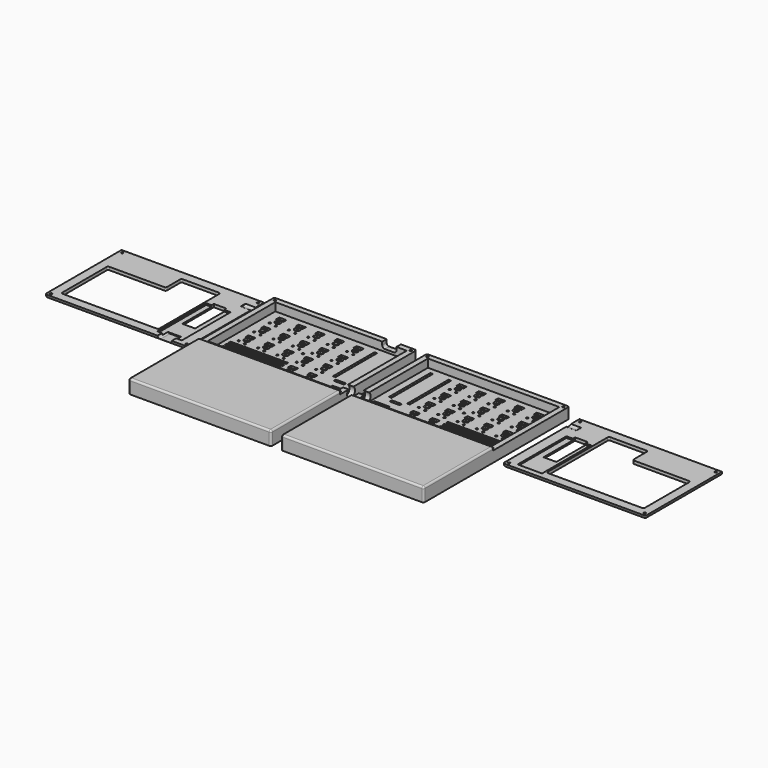
from build123d import *

# Parameters (mm, degrees)
PAD002_DEPTH                      = 13.6
SKETCH023_W                       = 129.2
SKETCH023_H                       = 83.1
POCKET016_DEPTH                   = 11
SKETCH027_R                       = 1.05
POCKET018_DEPTH                   = 13.601
SKETCH028_W                       = 140
SKETCH028_H                       = 93.9
POCKET019_DEPTH                   = 3
POCKET021_DEPTH                   = 1.6
SKETCH031_R                       = 1
SKETCH031_R_2                     = 2.7
SKETCH031_W                       = 7
SKETCH031_H                       = 3.8
POCKET022_DEPTH                   = 1.8
SKETCH032_W                       = 2.6
SKETCH032_H                       = 51
SKETCH032_W_2                     = 10
SKETCH032_H_2                     = 2.6
POCKET023_DEPTH                   = 1.8
SKETCH033_W                       = 56.5
SKETCH033_H                       = 2.4
SKETCH033_W_2                     = 22.5
POCKET024_DEPTH                   = 1.8
SKETCH034_W                       = 15
SKETCH034_H                       = 10
POCKET025_DEPTH                   = 1.8
SKETCH035_R                       = 4.85
POCKET026_DEPTH                   = 5.4
FILLET003_R                       = 1.8
POCKET027_DEPTH                   = 10
SKETCH038_W                       = 140
SKETCH038_H                       = 93.9
PAD004_DEPTH                      = 3
SKETCH039_W                       = 12.5
SKETCH039_H                       = 38.6472
POCKET028_DEPTH                   = 3
SKETCH040_W                       = 24
SKETCH040_H                       = 60
POCKET029_DEPTH                   = 1.5
SKETCH041_R                       = 1.05
POCKET030_DEPTH                   = 3.001
SKETCH042_R                       = 1.9
POCKET031_DEPTH                   = 1.4
CHAMFER001_1_ANGLE                = 45
CHAMFER001_1_SIZE                 = 0.843
CHAMFER001_2_ANGLE                = 45
CHAMFER001_2_SIZE                 = 0.843
CHAMFER001_3_ANGLE                = 45
CHAMFER001_3_SIZE                 = 0.843
CHAMFER001_4_ANGLE                = 45
CHAMFER001_4_SIZE                 = 0.843
FILLET004_R                       = 1.5
SKETCH043_R                       = 4.85
POCKET032_DEPTH                   = 10
FILLET005_R                       = 1.8
POCKET033_DEPTH                   = 12
BODY003_PLACEMENT_ANGLE           = 180
PAD005_DEPTH                      = 13.6
SKETCH046_W                       = 129.2
SKETCH046_H                       = 83.1
POCKET034_DEPTH                   = 11
SKETCH048_R                       = 1.05
POCKET035_DEPTH                   = 13.601
SKETCH049_W                       = 140
SKETCH049_H                       = 93.9
POCKET036_DEPTH                   = 3
POCKET037_DEPTH                   = 1.6
SKETCH051_R                       = 1
SKETCH051_R_2                     = 2.7
SKETCH051_W                       = 7
SKETCH051_H                       = 3.8
POCKET038_DEPTH                   = 1.8
SKETCH052_W                       = 2.6
SKETCH052_H                       = 51
SKETCH052_W_2                     = 10
SKETCH052_H_2                     = 2.6
POCKET039_DEPTH                   = 1.8
SKETCH053_W                       = 56.5
SKETCH053_H                       = 2.4
SKETCH053_W_2                     = 22.5
POCKET040_DEPTH                   = 1.8
SKETCH054_W                       = 15
SKETCH054_H                       = 10
POCKET041_DEPTH                   = 1.8
SKETCH055_R                       = 4.85
POCKET042_DEPTH                   = 5.4
FILLET006_R                       = 1.8
SKETCH057_W                       = 140
SKETCH057_H                       = 93.9
PAD006_DEPTH                      = 3
SKETCH058_W                       = 12.5
SKETCH058_H                       = 38.6472
POCKET043_DEPTH                   = 3
SKETCH059_W                       = 24
SKETCH059_H                       = 60
POCKET044_DEPTH                   = 1.5
SKETCH060_R                       = 1.05
POCKET045_DEPTH                   = 3.001
SKETCH061_R                       = 1.9
POCKET046_DEPTH                   = 1.4
CHAMFER002_1_ANGLE                = 45
CHAMFER002_1_SIZE                 = 0.843
CHAMFER002_2_ANGLE                = 45
CHAMFER002_2_SIZE                 = 0.843
CHAMFER002_3_ANGLE                = 45
CHAMFER002_3_SIZE                 = 0.843
CHAMFER002_4_ANGLE                = 45
CHAMFER002_4_SIZE                 = 0.843
FILLET007_R                       = 1.5
SKETCH062_R                       = 4.85
POCKET047_DEPTH                   = 10
FILLET008_R                       = 1.8
BODY005_PLACEMENT_ANGLE           = 180
PART_MIRRORING001_PLACEMENT_ANGLE = 180


with BuildPart() as bottom001:
    # Sketch022 (on XY_Plane077 of Origin464) → Pad002 (new body)
    with BuildSketch(Plane.XY):
        Polygon((70, -46.95), (70, 46.95), (-70, 46.95), (-70, -46.95), (-70, -131.95), (70, -131.95), align=None)
    extrude(amount=PAD002_DEPTH)

    # Sketch023 (on Face4 of Pad002) → Pocket016 (cut)
    with BuildSketch(Plane.XY.offset(13.6)):
        Rectangle(SKETCH023_W, SKETCH023_H)
    extrude(amount=-POCKET016_DEPTH, mode=Mode.SUBTRACT)

    # Sketch027 (on Face5 of Pocket016) → Pocket018 (cut, through all)
    with BuildSketch(Plane.XY.offset(13.6)):
        with Locations((66.75, 43.7)):
            Circle(SKETCH027_R)
        with Locations((66.75, -43.7)):
            Circle(SKETCH027_R)
        with Locations((-66.75, -43.7)):
            Circle(SKETCH027_R)
        with Locations((-66.75, 43.7)):
            Circle(SKETCH027_R)
        with Locations((-4.05, 0)):
            Circle(SKETCH027_R)
    extrude(amount=-POCKET018_DEPTH, mode=Mode.SUBTRACT)

    # Sketch028 (on Face4 of Pad002) → Pocket019 (cut)
    with BuildSketch(Plane.XY.offset(13.6)):
        Rectangle(SKETCH028_W, SKETCH028_H)
    extrude(amount=-POCKET019_DEPTH, mode=Mode.SUBTRACT)

    # Sketch030 (on Face2 of Pocket019) → Pocket021 (cut)
    with BuildSketch(Plane(origin=(0, 0, 0), x_dir=(1, 0, 0), z_dir=(0, 0, -1))):
        Polygon((64.75, -43.7), (65.75, -45.432051), (67.75, -45.432051), (68.75, -43.7), (67.75, -41.967949), (65.75, -41.967949), align=None)
        Polygon((-64.75, -43.7), (-65.75, -45.432051), (-67.75, -45.432051), (-68.75, -43.7), (-67.75, -41.967949), (-65.75, -41.967949), align=None)
        Polygon((64.75, 43.7), (65.75, 45.432051), (67.75, 45.432051), (68.75, 43.7), (67.75, 41.967949), (65.75, 41.967949), align=None)
        Polygon((-64.75, 43.7), (-65.75, 45.432051), (-67.75, 45.432051), (-68.75, 43.7), (-67.75, 41.967949), (-65.75, 41.967949), align=None)
        Polygon((-2.05, 0), (-3.05, 1.732051), (-5.05, 1.732051), (-6.05, 0), (-5.05, -1.732051), (-3.05, -1.732051), align=None)
    extrude(amount=-POCKET021_DEPTH, mode=Mode.SUBTRACT)

    # Sketch031 (on Face52 of Pocket021) → Pocket022 (cut)
    with BuildSketch(Plane.XY.offset(2.6)):
        with Locations((8.05, 3.75)):
            Circle(SKETCH031_R)
        with Locations((1.05, 4.8)):
            Circle(SKETCH031_R)
        with Locations((5.45, 9.5)):
            Circle(SKETCH031_R_2)
        with Locations((8.05, 22.75)):
            Circle(SKETCH031_R)
        with Locations((1.05, 23.8)):
            Circle(SKETCH031_R)
        with Locations((5.45, 28.5)):
            Circle(SKETCH031_R_2)
        with Locations((-29.95, 3.75)):
            Circle(SKETCH031_R)
        with Locations((-36.95, 4.8)):
            Circle(SKETCH031_R)
        with Locations((-32.55, 9.5)):
            Circle(SKETCH031_R_2)
        with Locations((-29.95, 22.75)):
            Circle(SKETCH031_R)
        with Locations((-36.95, 23.8)):
            Circle(SKETCH031_R)
        with Locations((-32.55, 28.5)):
            Circle(SKETCH031_R_2)
        with Locations((-48.95, 22.75)):
            Circle(SKETCH031_R)
        with Locations((-55.95, 23.8)):
            Circle(SKETCH031_R)
        with Locations((-51.55, 28.5)):
            Circle(SKETCH031_R_2)
        with Locations((-48.95, 3.75)):
            Circle(SKETCH031_R)
        with Locations((-55.95, 4.8)):
            Circle(SKETCH031_R)
        with Locations((-51.55, 9.5)):
            Circle(SKETCH031_R_2)
        with Locations((-10.95, 22.75)):
            Circle(SKETCH031_R)
        with Locations((-17.95, 23.8)):
            Circle(SKETCH031_R)
        with Locations((-13.55, 28.5)):
            Circle(SKETCH031_R_2)
        with Locations((27.05, 3.75)):
            Circle(SKETCH031_R)
        with Locations((20.05, 4.8)):
            Circle(SKETCH031_R)
        with Locations((24.45, 9.5)):
            Circle(SKETCH031_R_2)
        with Locations((27.05, 22.75)):
            Circle(SKETCH031_R)
        with Locations((20.05, 23.8)):
            Circle(SKETCH031_R)
        with Locations((24.45, 28.5)):
            Circle(SKETCH031_R_2)
        with Locations((-48.95, -15.25)):
            Circle(SKETCH031_R)
        with Locations((-55.95, -14.2)):
            Circle(SKETCH031_R)
        with Locations((-51.55, -9.5)):
            Circle(SKETCH031_R_2)
        with Locations((-29.95, -15.25)):
            Circle(SKETCH031_R)
        with Locations((-36.95, -14.2)):
            Circle(SKETCH031_R)
        with Locations((-32.55, -9.5)):
            Circle(SKETCH031_R_2)
        with Locations((-10.95, -15.25)):
            Circle(SKETCH031_R)
        with Locations((-17.95, -14.2)):
            Circle(SKETCH031_R)
        with Locations((-13.55, -9.5)):
            Circle(SKETCH031_R_2)
        with Locations((8.05, -15.25)):
            Circle(SKETCH031_R)
        with Locations((1.05, -14.2)):
            Circle(SKETCH031_R)
        with Locations((5.45, -9.5)):
            Circle(SKETCH031_R_2)
        with Locations((27.05, -15.25)):
            Circle(SKETCH031_R)
        with Locations((20.05, -14.2)):
            Circle(SKETCH031_R)
        with Locations((24.45, -9.5)):
            Circle(SKETCH031_R_2)
        with Locations((8.05, -34.25)):
            Circle(SKETCH031_R)
        with Locations((1.05, -33.2)):
            Circle(SKETCH031_R)
        with Locations((5.45, -28.5)):
            Circle(SKETCH031_R_2)
        with Locations((27.05, -34.25)):
            Circle(SKETCH031_R)
        with Locations((20.05, -33.2)):
            Circle(SKETCH031_R)
        with Locations((24.45, -28.5)):
            Circle(SKETCH031_R_2)
        with Locations((-10.95, 3.75)):
            Circle(SKETCH031_R)
        with Locations((-17.95, 4.8)):
            Circle(SKETCH031_R)
        with Locations((-13.55, 9.5)):
            Circle(SKETCH031_R_2)
        with Locations((4.65, 14.65)):
            Rectangle(SKETCH031_W, SKETCH031_H)
        with Locations((4.65, 33.65)):
            Rectangle(SKETCH031_W, SKETCH031_H)
        with Locations((-33.35, 14.65)):
            Rectangle(SKETCH031_W, SKETCH031_H)
        with Locations((-33.35, 33.65)):
            Rectangle(SKETCH031_W, SKETCH031_H)
        with Locations((-52.35, 33.65)):
            Rectangle(SKETCH031_W, SKETCH031_H)
        with Locations((-52.35, 14.65)):
            Rectangle(SKETCH031_W, SKETCH031_H)
        with Locations((-14.35, 33.65)):
            Rectangle(SKETCH031_W, SKETCH031_H)
        with Locations((23.65, 14.65)):
            Rectangle(SKETCH031_W, SKETCH031_H)
        with Locations((23.65, 33.65)):
            Rectangle(SKETCH031_W, SKETCH031_H)
        with Locations((-52.35, -4.35)):
            Rectangle(SKETCH031_W, SKETCH031_H)
        with Locations((-33.35, -4.35)):
            Rectangle(SKETCH031_W, SKETCH031_H)
        with Locations((-14.35, -4.35)):
            Rectangle(SKETCH031_W, SKETCH031_H)
        with Locations((4.65, -4.35)):
            Rectangle(SKETCH031_W, SKETCH031_H)
        with Locations((23.65, -4.35)):
            Rectangle(SKETCH031_W, SKETCH031_H)
        with Locations((4.65, -23.35)):
            Rectangle(SKETCH031_W, SKETCH031_H)
        with Locations((23.65, -23.35)):
            Rectangle(SKETCH031_W, SKETCH031_H)
        with Locations((-14.35, 14.65)):
            Rectangle(SKETCH031_W, SKETCH031_H)
    extrude(amount=-POCKET022_DEPTH, mode=Mode.SUBTRACT)

    # Sketch032 (on Face52 of Pocket022) → Pocket023 (cut)
    with BuildSketch(Plane.XY.offset(2.6)):
        with Locations((38.55, 10.5)):
            Rectangle(SKETCH032_W, SKETCH032_H)
        with Locations((56.4, 10.5)):
            Rectangle(SKETCH032_W, SKETCH032_H)
        with Locations((47.5, -19.3)):
            Rectangle(SKETCH032_W_2, SKETCH032_H_2)
    extrude(amount=-POCKET023_DEPTH, mode=Mode.SUBTRACT)

    # Sketch033 (on Face52 of Pocket023) → Pocket024 (cut)
    with BuildSketch(Plane.XY.offset(2.6)):
        with Locations((-31.75, -24.9)):
            Rectangle(SKETCH033_W, SKETCH033_H)
        with Locations((-31.75, -29.5)):
            Rectangle(SKETCH033_W, SKETCH033_H)
        with Locations((-14.75, -34.1)):
            Rectangle(SKETCH033_W_2, SKETCH033_H)
        with Locations((-31.75, -20.3)):
            Rectangle(SKETCH033_W, SKETCH033_H)
    extrude(amount=-POCKET024_DEPTH, mode=Mode.SUBTRACT)

    # Sketch034 (on Face52 of Pocket024) → Pocket025 (cut)
    with BuildSketch(Plane.XY.offset(2.6)):
        with Locations((54.375, -32.375)):
            Rectangle(SKETCH034_W, SKETCH034_H)
    extrude(amount=-POCKET025_DEPTH, mode=Mode.SUBTRACT)

    # Sketch035 (on Face5 of Pocket025) → Pocket026 (cut)
    with BuildSketch(Plane.YZ.offset(70)):
        with Locations((-33.65, 6.75)):
            Circle(SKETCH035_R)
    extrude(amount=-POCKET026_DEPTH, mode=Mode.SUBTRACT)

    # Fillet003
    fillet003_edges = [bottom001.edges().sort_by_distance(p)[0] for p in [
        (-70, -89.45, 13.6),
        (0, -131.95, 13.6),
        (-70, -131.95, 6.8),
        (-70, 46.95, 5.3),
        (70, 46.95, 5.3),
        (70, -89.45, 13.6),
        (70, -131.95, 6.8),
    ]]
    fillet(fillet003_edges, radius=FILLET003_R)

    # Sketch037 (on Face1 of Fillet003) → Pocket027 (cut)
    with BuildSketch(Plane(origin=(0, 46.95, 0), x_dir=(-1, 0, 0), z_dir=(0, 1, 0))):
        with BuildLine():
            Line((-40.5, 7.5), (-40.5, 10.5))
            ThreePointArc((-40.5, 10.5), (-41.232233, 12.267767), (-43, 13))
            Line((-43, 13), (-52, 13))
            ThreePointArc((-52, 13), (-53.767767, 12.267767), (-54.5, 10.5))
            Line((-54.5, 10.5), (-54.5, 7.5))
            ThreePointArc((-54.5, 7.5), (-53.767767, 5.732233), (-52, 5))
            Line((-52, 5), (-43, 5))
            ThreePointArc((-43, 5), (-41.232233, 5.732233), (-40.5, 7.5))
        make_face()
    extrude(amount=-POCKET027_DEPTH, mode=Mode.SUBTRACT)


with BuildPart() as bottom001_1:
    # Body002 placement: moved
    add(bottom001.part.moved(Location((0, 0, -0.1))))


with BuildPart() as top001:
    # Sketch038 (on XY_Plane154 of Origin468) → Pad004 (new body)
    with BuildSketch(Plane.XY):
        Rectangle(SKETCH038_W, SKETCH038_H)
    extrude(amount=PAD004_DEPTH)

    # Sketch039 (on Face6 of Pad004) → Pocket028 (cut)
    with BuildSketch(Plane.XY.offset(3)):
        Polygon((-61.3, 38.25), (-61.3, -19.25), (-4.3, -19.25), (-4.3, -38.25), (34.2, -38.25), (34.2, 38.25), align=None)
        with Locations((47.48708, -1.86296)):
            Rectangle(SKETCH039_W, SKETCH039_H)
    extrude(amount=-POCKET028_DEPTH, mode=Mode.SUBTRACT)

    # Sketch040 (on Face4 of Pocket028) → Pocket029 (cut)
    with BuildSketch(Plane(origin=(0, 0, 0), x_dir=(1, 0, 0), z_dir=(0, 0, -1))):
        with Locations((48, -11.55)):
            Rectangle(SKETCH040_W, SKETCH040_H)
    extrude(amount=-POCKET029_DEPTH, mode=Mode.SUBTRACT)

    # Sketch041 (on Face5 of Pocket029) → Pocket030 (cut, through all)
    with BuildSketch(Plane.XY.offset(3)):
        with Locations((66.75, 43.7)):
            Circle(SKETCH041_R)
        with Locations((66.75, -43.7)):
            Circle(SKETCH041_R)
        with Locations((-66.75, -43.7)):
            Circle(SKETCH041_R)
        with Locations((-66.75, 43.7)):
            Circle(SKETCH041_R)
    extrude(amount=-POCKET030_DEPTH, mode=Mode.SUBTRACT)

    # Sketch042 (on Face5 of Pocket030) → Pocket031 (cut)
    with BuildSketch(Plane.XY.offset(3)):
        with Locations((-66.75, 43.7)):
            Circle(SKETCH042_R)
        with Locations((66.75, 43.7)):
            Circle(SKETCH042_R)
        with Locations((-66.75, -43.7)):
            Circle(SKETCH042_R)
        with Locations((66.75, -43.7)):
            Circle(SKETCH042_R)
    extrude(amount=-POCKET031_DEPTH, mode=Mode.SUBTRACT)

    # Chamfer001 1
    chamfer001_1_edges = [top001.edges().sort_by_distance(p)[0] for p in [
        (-67.8, 43.7, 1.6),
    ]]
    chamfer001_1_side = top001.faces().sort_by_distance((-67.8, 43.7, 0.8))[0]
    chamfer(chamfer001_1_edges, length=CHAMFER001_1_SIZE, angle=CHAMFER001_1_ANGLE, reference=chamfer001_1_side)

    # Chamfer001 2
    chamfer001_2_edges = [top001.edges().sort_by_distance(p)[0] for p in [
        (65.7, -43.7, 1.6),
    ]]
    chamfer001_2_side = top001.faces().sort_by_distance((65.7, -43.7, 0.8))[0]
    chamfer(chamfer001_2_edges, length=CHAMFER001_2_SIZE, angle=CHAMFER001_2_ANGLE, reference=chamfer001_2_side)

    # Chamfer001 3
    chamfer001_3_edges = [top001.edges().sort_by_distance(p)[0] for p in [
        (-67.8, -43.7, 1.6),
    ]]
    chamfer001_3_side = top001.faces().sort_by_distance((-67.8, -43.7, 0.8))[0]
    chamfer(chamfer001_3_edges, length=CHAMFER001_3_SIZE, angle=CHAMFER001_3_ANGLE, reference=chamfer001_3_side)

    # Chamfer001 4
    chamfer001_4_edges = [top001.edges().sort_by_distance(p)[0] for p in [
        (65.7, 43.7, 1.6),
    ]]
    chamfer001_4_side = top001.faces().sort_by_distance((65.7, 43.7, 0.8))[0]
    chamfer(chamfer001_4_edges, length=CHAMFER001_4_SIZE, angle=CHAMFER001_4_ANGLE, reference=chamfer001_4_side)

    # Fillet004
    fillet004_edges = [top001.edges().sort_by_distance(p)[0] for p in [
        (-4.3, -38.25, 1.5),
        (34.2, -38.25, 1.5),
        (34.2, 38.25, 1.5),
        (-61.3, 38.25, 1.5),
        (-61.3, -19.25, 1.5),
        (-4.3, -19.25, 1.5),
    ]]
    fillet(fillet004_edges, radius=FILLET004_R)

    # Sketch043 (on Face16 of Fillet004) → Pocket032 (cut)
    with BuildSketch(Plane.YZ.offset(70)):
        with Locations((-33.64, -3.85)):
            Circle(SKETCH043_R)
    extrude(amount=-POCKET032_DEPTH, mode=Mode.SUBTRACT)

    # Fillet005
    fillet005_edges = [top001.edges().sort_by_distance(p)[0] for p in [
        (70, 0, 3),
        (0, 46.95, 3),
        (70, 46.95, 1.5),
        (-70, 46.95, 1.5),
        (-70, 0, 3),
    ]]
    fillet(fillet005_edges, radius=FILLET005_R)

    # Sketch044 (on Face5 of Fillet005) → Pocket033 (cut)
    with BuildSketch(Plane(origin=(0, 46.95, 0), x_dir=(-1, 0, 0), z_dir=(0, 1, 0))):
        with BuildLine():
            Line((-40.5, -3.1), (-40.5, -0.1))
            ThreePointArc((-40.5, -0.1), (-41.232233, 1.667767), (-43, 2.4))
            Line((-43, 2.4), (-52, 2.4))
            ThreePointArc((-52, 2.4), (-53.767767, 1.667767), (-54.5, -0.1))
            Line((-54.5, -0.1), (-54.5, -3.1))
            ThreePointArc((-54.5, -3.1), (-53.767767, -4.867767), (-52, -5.6))
            Line((-52, -5.6), (-43, -5.6))
            ThreePointArc((-43, -5.6), (-41.232233, -4.867767), (-40.5, -3.1))
        make_face()
    extrude(amount=-POCKET033_DEPTH, mode=Mode.SUBTRACT)


with BuildPart() as top001_1:
    # Body003 placement: moved
    add(top001.part.moved(Location((-150, 0, 2.9))).rotate(Axis((-150, 0, 2.9), (1, 0, 0)), BODY003_PLACEMENT_ANGLE))


with BuildPart() as bottom002:
    # Sketch045 (on XY_Plane077 of Origin470) → Pad005 (new body)
    with BuildSketch(Plane.XY):
        Polygon((70, -46.95), (70, 46.95), (-70, 46.95), (-70, -46.95), (-70, -131.95), (70, -131.95), align=None)
    extrude(amount=PAD005_DEPTH)

    # Sketch046 (on Face4 of Pad005) → Pocket034 (cut)
    with BuildSketch(Plane.XY.offset(13.6)):
        Rectangle(SKETCH046_W, SKETCH046_H)
    extrude(amount=-POCKET034_DEPTH, mode=Mode.SUBTRACT)

    # Sketch048 (on Face5 of Pocket034) → Pocket035 (cut, through all)
    with BuildSketch(Plane.XY.offset(13.6)):
        with Locations((66.75, 43.7)):
            Circle(SKETCH048_R)
        with Locations((66.75, -43.7)):
            Circle(SKETCH048_R)
        with Locations((-66.75, -43.7)):
            Circle(SKETCH048_R)
        with Locations((-66.75, 43.7)):
            Circle(SKETCH048_R)
        with Locations((-4.05, 0)):
            Circle(SKETCH048_R)
    extrude(amount=-POCKET035_DEPTH, mode=Mode.SUBTRACT)

    # Sketch049 (on Face4 of Pad005) → Pocket036 (cut)
    with BuildSketch(Plane.XY.offset(13.6)):
        Rectangle(SKETCH049_W, SKETCH049_H)
    extrude(amount=-POCKET036_DEPTH, mode=Mode.SUBTRACT)

    # Sketch050 (on Face2 of Pocket036) → Pocket037 (cut)
    with BuildSketch(Plane(origin=(0, 0, 0), x_dir=(1, 0, 0), z_dir=(0, 0, -1))):
        Polygon((64.75, -43.7), (65.75, -45.432051), (67.75, -45.432051), (68.75, -43.7), (67.75, -41.967949), (65.75, -41.967949), align=None)
        Polygon((-64.75, -43.7), (-65.75, -45.432051), (-67.75, -45.432051), (-68.75, -43.7), (-67.75, -41.967949), (-65.75, -41.967949), align=None)
        Polygon((64.75, 43.7), (65.75, 45.432051), (67.75, 45.432051), (68.75, 43.7), (67.75, 41.967949), (65.75, 41.967949), align=None)
        Polygon((-64.75, 43.7), (-65.75, 45.432051), (-67.75, 45.432051), (-68.75, 43.7), (-67.75, 41.967949), (-65.75, 41.967949), align=None)
        Polygon((-2.05, 0), (-3.05, 1.732051), (-5.05, 1.732051), (-6.05, 0), (-5.05, -1.732051), (-3.05, -1.732051), align=None)
    extrude(amount=-POCKET037_DEPTH, mode=Mode.SUBTRACT)

    # Sketch051 (on Face52 of Pocket037) → Pocket038 (cut)
    with BuildSketch(Plane.XY.offset(2.6)):
        with Locations((28.85, 23.8)):
            Circle(SKETCH051_R)
        with Locations((21.85, 22.75)):
            Circle(SKETCH051_R)
        with Locations((24.45, 28.5)):
            Circle(SKETCH051_R_2)
        with Locations((9.85, 23.8)):
            Circle(SKETCH051_R)
        with Locations((2.85, 22.75)):
            Circle(SKETCH051_R)
        with Locations((5.45, 28.5)):
            Circle(SKETCH051_R_2)
        with Locations((-9.15, 23.8)):
            Circle(SKETCH051_R)
        with Locations((-16.15, 22.75)):
            Circle(SKETCH051_R)
        with Locations((-13.55, 28.5)):
            Circle(SKETCH051_R_2)
        with Locations((-28.15, 23.8)):
            Circle(SKETCH051_R)
        with Locations((-35.15, 22.75)):
            Circle(SKETCH051_R)
        with Locations((-32.55, 28.5)):
            Circle(SKETCH051_R_2)
        with Locations((-47.15, 23.8)):
            Circle(SKETCH051_R)
        with Locations((-54.15, 22.75)):
            Circle(SKETCH051_R)
        with Locations((-51.55, 28.5)):
            Circle(SKETCH051_R_2)
        with Locations((28.85, -14.2)):
            Circle(SKETCH051_R)
        with Locations((21.85, -15.25)):
            Circle(SKETCH051_R)
        with Locations((24.45, -9.5)):
            Circle(SKETCH051_R_2)
        with Locations((9.85, -14.2)):
            Circle(SKETCH051_R)
        with Locations((2.85, -15.25)):
            Circle(SKETCH051_R)
        with Locations((5.45, -9.5)):
            Circle(SKETCH051_R_2)
        with Locations((-9.15, -14.2)):
            Circle(SKETCH051_R)
        with Locations((-16.15, -15.25)):
            Circle(SKETCH051_R)
        with Locations((-13.55, -9.5)):
            Circle(SKETCH051_R_2)
        with Locations((-28.15, -14.2)):
            Circle(SKETCH051_R)
        with Locations((-35.15, -15.25)):
            Circle(SKETCH051_R)
        with Locations((-32.55, -9.5)):
            Circle(SKETCH051_R_2)
        with Locations((-47.15, -14.2)):
            Circle(SKETCH051_R)
        with Locations((-54.15, -15.25)):
            Circle(SKETCH051_R)
        with Locations((-51.55, -9.5)):
            Circle(SKETCH051_R_2)
        with Locations((28.85, -33.2)):
            Circle(SKETCH051_R)
        with Locations((21.85, -34.25)):
            Circle(SKETCH051_R)
        with Locations((24.45, -28.5)):
            Circle(SKETCH051_R_2)
        with Locations((9.85, -33.2)):
            Circle(SKETCH051_R)
        with Locations((2.85, -34.25)):
            Circle(SKETCH051_R)
        with Locations((5.45, -28.5)):
            Circle(SKETCH051_R_2)
        with Locations((28.85, 4.8)):
            Circle(SKETCH051_R)
        with Locations((21.85, 3.75)):
            Circle(SKETCH051_R)
        with Locations((24.45, 9.5)):
            Circle(SKETCH051_R_2)
        with Locations((9.85, 4.8)):
            Circle(SKETCH051_R)
        with Locations((2.85, 3.75)):
            Circle(SKETCH051_R)
        with Locations((5.45, 9.5)):
            Circle(SKETCH051_R_2)
        with Locations((-9.15, 4.8)):
            Circle(SKETCH051_R)
        with Locations((-16.15, 3.75)):
            Circle(SKETCH051_R)
        with Locations((-13.55, 9.5)):
            Circle(SKETCH051_R_2)
        with Locations((-28.15, 4.8)):
            Circle(SKETCH051_R)
        with Locations((-35.15, 3.75)):
            Circle(SKETCH051_R)
        with Locations((-32.55, 9.5)):
            Circle(SKETCH051_R_2)
        with Locations((-47.15, 4.8)):
            Circle(SKETCH051_R)
        with Locations((-54.15, 3.75)):
            Circle(SKETCH051_R)
        with Locations((-51.55, 9.5)):
            Circle(SKETCH051_R_2)
        with Locations((25.25, 33.65)):
            Rectangle(SKETCH051_W, SKETCH051_H)
        with Locations((6.25, 33.65)):
            Rectangle(SKETCH051_W, SKETCH051_H)
        with Locations((-12.75, 33.65)):
            Rectangle(SKETCH051_W, SKETCH051_H)
        with Locations((-31.75, 33.65)):
            Rectangle(SKETCH051_W, SKETCH051_H)
        with Locations((-50.75, 33.65)):
            Rectangle(SKETCH051_W, SKETCH051_H)
        with Locations((25.25, -4.35)):
            Rectangle(SKETCH051_W, SKETCH051_H)
        with Locations((6.25, -4.35)):
            Rectangle(SKETCH051_W, SKETCH051_H)
        with Locations((-12.75, -4.35)):
            Rectangle(SKETCH051_W, SKETCH051_H)
        with Locations((-31.75, -4.35)):
            Rectangle(SKETCH051_W, SKETCH051_H)
        with Locations((-50.75, -4.35)):
            Rectangle(SKETCH051_W, SKETCH051_H)
        with Locations((25.25, -23.35)):
            Rectangle(SKETCH051_W, SKETCH051_H)
        with Locations((6.25, -23.35)):
            Rectangle(SKETCH051_W, SKETCH051_H)
        with Locations((25.25, 14.65)):
            Rectangle(SKETCH051_W, SKETCH051_H)
        with Locations((6.25, 14.65)):
            Rectangle(SKETCH051_W, SKETCH051_H)
        with Locations((-12.75, 14.65)):
            Rectangle(SKETCH051_W, SKETCH051_H)
        with Locations((-31.75, 14.65)):
            Rectangle(SKETCH051_W, SKETCH051_H)
        with Locations((-50.75, 14.65)):
            Rectangle(SKETCH051_W, SKETCH051_H)
    extrude(amount=-POCKET038_DEPTH, mode=Mode.SUBTRACT)

    # Sketch052 (on Face52 of Pocket038) → Pocket039 (cut)
    with BuildSketch(Plane.XY.offset(2.6)):
        with Locations((38.55, 10.5)):
            Rectangle(SKETCH052_W, SKETCH052_H)
        with Locations((56.4, 10.5)):
            Rectangle(SKETCH052_W, SKETCH052_H)
        with Locations((47.5, -19.3)):
            Rectangle(SKETCH052_W_2, SKETCH052_H_2)
    extrude(amount=-POCKET039_DEPTH, mode=Mode.SUBTRACT)

    # Sketch053 (on Face52 of Pocket039) → Pocket040 (cut)
    with BuildSketch(Plane.XY.offset(2.6)):
        with Locations((-31.75, -24.9)):
            Rectangle(SKETCH053_W, SKETCH053_H)
        with Locations((-31.75, -29.5)):
            Rectangle(SKETCH053_W, SKETCH053_H)
        with Locations((-14.75, -34.1)):
            Rectangle(SKETCH053_W_2, SKETCH053_H)
        with Locations((-31.75, -20.3)):
            Rectangle(SKETCH053_W, SKETCH053_H)
    extrude(amount=-POCKET040_DEPTH, mode=Mode.SUBTRACT)

    # Sketch054 (on Face52 of Pocket040) → Pocket041 (cut)
    with BuildSketch(Plane.XY.offset(2.6)):
        with Locations((54.375, -32.375)):
            Rectangle(SKETCH054_W, SKETCH054_H)
    extrude(amount=-POCKET041_DEPTH, mode=Mode.SUBTRACT)

    # Sketch055 (on Face5 of Pocket041) → Pocket042 (cut)
    with BuildSketch(Plane.YZ.offset(70)):
        with Locations((-33.65, 6.75)):
            Circle(SKETCH055_R)
    extrude(amount=-POCKET042_DEPTH, mode=Mode.SUBTRACT)

    # Fillet006
    fillet006_edges = [bottom002.edges().sort_by_distance(p)[0] for p in [
        (-70, -89.45, 13.6),
        (0, -131.95, 13.6),
        (-70, -131.95, 6.8),
        (-70, 46.95, 5.3),
        (70, 46.95, 5.3),
        (70, -89.45, 13.6),
        (70, -131.95, 6.8),
    ]]
    fillet(fillet006_edges, radius=FILLET006_R)


with BuildPart() as bottom002_1:
    # Body004 placement: moved
    add(bottom002.part.moved(Location((0, 0, -0.1))))


with BuildPart() as part_mirroring:
    # Part__Mirroring: instance of Bottom002
    add(bottom002_1.part.mirror(Plane(origin=(0, 0, 0), x_dir=(0, -1, 0), z_dir=(1, 0, 0))))


with BuildPart() as part_mirroring_1:
    # Part__Mirroring placement: moved
    add(part_mirroring.part.moved(Location((150, 0, 0))))


with BuildPart() as top002:
    # Sketch057 (on XY_Plane154 of Origin472) → Pad006 (new body)
    with BuildSketch(Plane.XY):
        Rectangle(SKETCH057_W, SKETCH057_H)
    extrude(amount=PAD006_DEPTH)

    # Sketch058 (on Face6 of Pad006) → Pocket043 (cut)
    with BuildSketch(Plane.XY.offset(3)):
        Polygon((-61.3, 38.25), (-61.3, -19.25), (-4.3, -19.25), (-4.3, -38.25), (34.2, -38.25), (34.2, 38.25), align=None)
        with Locations((47.48708, -1.86296)):
            Rectangle(SKETCH058_W, SKETCH058_H)
    extrude(amount=-POCKET043_DEPTH, mode=Mode.SUBTRACT)

    # Sketch059 (on Face4 of Pocket043) → Pocket044 (cut)
    with BuildSketch(Plane(origin=(0, 0, 0), x_dir=(1, 0, 0), z_dir=(0, 0, -1))):
        with Locations((48, -11.55)):
            Rectangle(SKETCH059_W, SKETCH059_H)
    extrude(amount=-POCKET044_DEPTH, mode=Mode.SUBTRACT)

    # Sketch060 (on Face5 of Pocket044) → Pocket045 (cut, through all)
    with BuildSketch(Plane.XY.offset(3)):
        with Locations((66.75, 43.7)):
            Circle(SKETCH060_R)
        with Locations((66.75, -43.7)):
            Circle(SKETCH060_R)
        with Locations((-66.75, -43.7)):
            Circle(SKETCH060_R)
        with Locations((-66.75, 43.7)):
            Circle(SKETCH060_R)
    extrude(amount=-POCKET045_DEPTH, mode=Mode.SUBTRACT)

    # Sketch061 (on Face5 of Pocket045) → Pocket046 (cut)
    with BuildSketch(Plane.XY.offset(3)):
        with Locations((-66.75, 43.7)):
            Circle(SKETCH061_R)
        with Locations((66.75, 43.7)):
            Circle(SKETCH061_R)
        with Locations((-66.75, -43.7)):
            Circle(SKETCH061_R)
        with Locations((66.75, -43.7)):
            Circle(SKETCH061_R)
    extrude(amount=-POCKET046_DEPTH, mode=Mode.SUBTRACT)

    # Chamfer002 1
    chamfer002_1_edges = [top002.edges().sort_by_distance(p)[0] for p in [
        (-67.8, 43.7, 1.6),
    ]]
    chamfer002_1_side = top002.faces().sort_by_distance((-67.8, 43.7, 0.8))[0]
    chamfer(chamfer002_1_edges, length=CHAMFER002_1_SIZE, angle=CHAMFER002_1_ANGLE, reference=chamfer002_1_side)

    # Chamfer002 2
    chamfer002_2_edges = [top002.edges().sort_by_distance(p)[0] for p in [
        (65.7, -43.7, 1.6),
    ]]
    chamfer002_2_side = top002.faces().sort_by_distance((65.7, -43.7, 0.8))[0]
    chamfer(chamfer002_2_edges, length=CHAMFER002_2_SIZE, angle=CHAMFER002_2_ANGLE, reference=chamfer002_2_side)

    # Chamfer002 3
    chamfer002_3_edges = [top002.edges().sort_by_distance(p)[0] for p in [
        (-67.8, -43.7, 1.6),
    ]]
    chamfer002_3_side = top002.faces().sort_by_distance((-67.8, -43.7, 0.8))[0]
    chamfer(chamfer002_3_edges, length=CHAMFER002_3_SIZE, angle=CHAMFER002_3_ANGLE, reference=chamfer002_3_side)

    # Chamfer002 4
    chamfer002_4_edges = [top002.edges().sort_by_distance(p)[0] for p in [
        (65.7, 43.7, 1.6),
    ]]
    chamfer002_4_side = top002.faces().sort_by_distance((65.7, 43.7, 0.8))[0]
    chamfer(chamfer002_4_edges, length=CHAMFER002_4_SIZE, angle=CHAMFER002_4_ANGLE, reference=chamfer002_4_side)

    # Fillet007
    fillet007_edges = [top002.edges().sort_by_distance(p)[0] for p in [
        (-4.3, -38.25, 1.5),
        (34.2, -38.25, 1.5),
        (34.2, 38.25, 1.5),
        (-61.3, 38.25, 1.5),
        (-61.3, -19.25, 1.5),
        (-4.3, -19.25, 1.5),
    ]]
    fillet(fillet007_edges, radius=FILLET007_R)

    # Sketch062 (on Face16 of Fillet007) → Pocket047 (cut)
    with BuildSketch(Plane.YZ.offset(70)):
        with Locations((-33.64, -3.85)):
            Circle(SKETCH062_R)
    extrude(amount=-POCKET047_DEPTH, mode=Mode.SUBTRACT)

    # Fillet008
    fillet008_edges = [top002.edges().sort_by_distance(p)[0] for p in [
        (70, 0, 3),
        (0, 46.95, 3),
        (70, 46.95, 1.5),
        (-70, 46.95, 1.5),
        (-70, 0, 3),
    ]]
    fillet(fillet008_edges, radius=FILLET008_R)


with BuildPart() as top002_1:
    # Body005 placement: moved
    add(top002.part.moved(Location((150, 0, 2.9))).rotate(Axis((150, 0, 2.9), (0, 1, 0)), BODY005_PLACEMENT_ANGLE))


with BuildPart() as part_mirroring001:
    # Part__Mirroring001: instance of Top002
    add(top002_1.part.mirror(Plane(origin=(0, 0, 0), x_dir=(0, -1, 0), z_dir=(1, 0, 0))))


with BuildPart() as part_mirroring001_1:
    # Part__Mirroring001 placement: moved
    add(part_mirroring001.part.moved(Location((150, 0, 0))).rotate(Axis((150, 0, 0), (0, 0, -1)), PART_MIRRORING001_PLACEMENT_ANGLE))


solid = Compound([bottom001_1.part, top001_1.part, part_mirroring_1.part, part_mirroring001_1.part])
